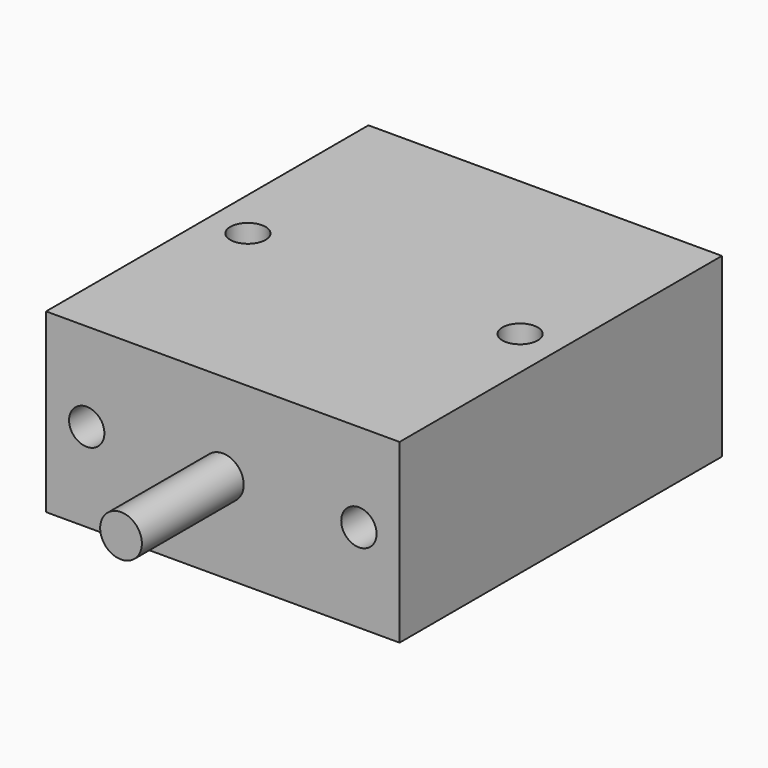
from build123d import *

# Parameters (mm, degrees)
F0_W     = 25.4
F0_H     = 28.956
F1_DEPTH = 12.7
F3_D     = 2.54
F4_D     = 3
F6_D     = 2.54
F7_DEPTH = 9.144
F9_DEPTH = 17


with BuildPart() as f1:
    # F0 (on Top) → F1 (new body)
    with BuildSketch(Plane.XY):
        with Locations((0.232301, -1.510053)):
            Rectangle(F0_W, F0_H)
    extrude(amount=F1_DEPTH)

    # F3 (through all)
    with Locations(Plane.XZ.offset(15.988053)):
        with Locations((-9.546699, 6.35), (10.011301, 6.35)):
            Hole(F3_D / 2)

    # F4 (through all)
    with Locations(Plane.XZ.offset(15.988053)):
        with Locations((0.232301, 6.35)):
            Hole(F4_D / 2)

    # F6 (through all)
    with Locations(Plane.XY.offset(12.7)):
        with Locations((-9.546699, -1.510053), (10.011301, -1.510053)):
            Hole(F6_D / 2)

    # F8 (on face) → F9 (cut)
    with BuildSketch(Plane(origin=(0, 12.967947, 0), x_dir=(-1, 0, 0), z_dir=(0, 1, 0))):
        with BuildLine():
            Line((-4.140937, 1.625796), (3.676335, 1.625796))
            ThreePointArc((3.676335, 1.625796), (4.383442, 1.918689), (4.676335, 2.625796))
            Line((4.676335, 2.625796), (4.676335, 10.074204))
            ThreePointArc((4.676335, 10.074204), (4.383442, 10.781311), (3.676335, 11.074204))
            Line((3.676335, 11.074204), (-4.140937, 11.074204))
            ThreePointArc((-4.140937, 11.074204), (-4.848044, 10.781311), (-5.140937, 10.074204))
            Line((-5.140937, 10.074204), (-5.140937, 2.625796))
            ThreePointArc((-5.140937, 2.625796), (-4.848044, 1.918689), (-4.140937, 1.625796))
        make_face()
    extrude(amount=-F9_DEPTH, mode=Mode.SUBTRACT)


with BuildPart() as f7:
    # F2 (on face) → F7 (new body)
    with BuildSketch(Plane.XZ.offset(15.988053)):
        with BuildLine():
            Line((1.732301, 6.35), (0.232301, 6.35))
            Line((0.232301, 6.35), (-1.267699, 6.35))
            ThreePointArc((-1.267699, 6.35), (0.232301, 4.85), (1.732301, 6.35))
        make_face()
        with BuildLine():
            Line((-1.267699, 6.35), (0.232301, 6.35))
            Line((0.232301, 6.35), (1.732301, 6.35))
            ThreePointArc((1.732301, 6.35), (0.232301, 7.85), (-1.267699, 6.35))
        make_face()
    extrude(amount=F7_DEPTH)


solid = Compound([f1.part, f7.part])
